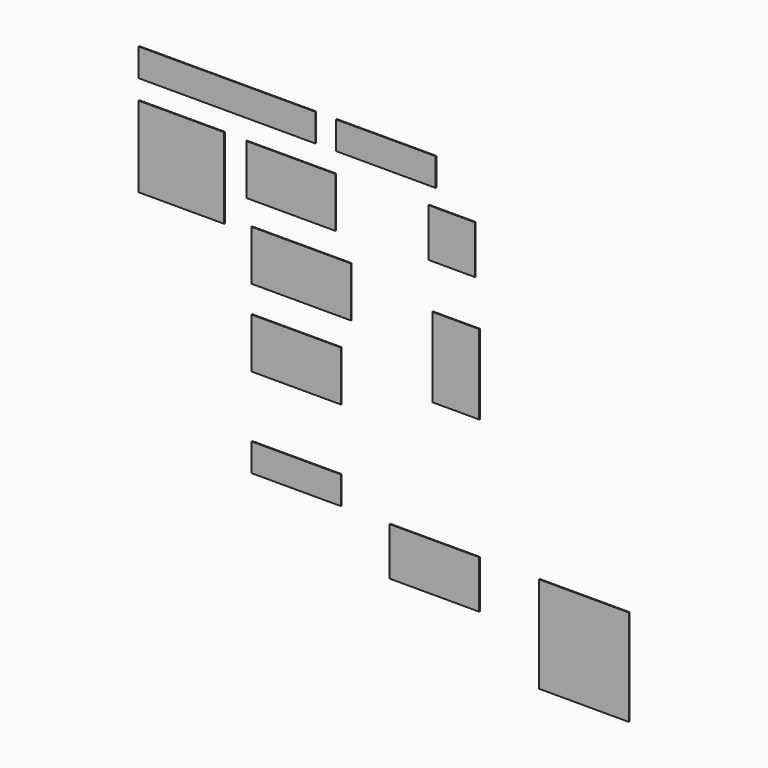
from build123d import *

# Parameters (mm, degrees)
F0_W     = 1279
F0_H     = 202
F0_W_2   = 720
F0_W_3   = 620
F0_H_2   = 584
F0_W_4   = 645
F0_H_3   = 363
F0_W_5   = 648
F0_W_6   = 337
F0_H_4   = 349
F0_W_7   = 339
F0_H_5   = 576
F0_W_8   = 649
F0_H_6   = 347
F0_H_7   = 697
F1_DEPTH = 6


with BuildPart() as f1:
    # F0 (on Front) → F1 (new body)
    with BuildSketch(Plane.XZ):
        with Locations((-825.733922, 1030.415606)):
            Rectangle(F0_W, F0_H)
        with Locations((324.496017, 1030.415606)):
            Rectangle(F0_W_2, F0_H)
        with Locations((-1155.233922, 494.7136)):
            Rectangle(F0_W_3, F0_H_2)
        with Locations((-363.237312, 601.296502)):
            Rectangle(F0_W_4, F0_H_3)
        with Locations((-288, 66.900228)):
            Rectangle(F0_W_2, F0_H_3)
        with Locations((-324, -492.084461)):
            Rectangle(F0_W_5, F0_H_3)
        with Locations((-324, -1220.074963)):
            Rectangle(F0_W_5, F0_H)
        with Locations((800.275213, 628.201258)):
            Rectangle(F0_W_6, F0_H_4)
        with Locations((830.833621, -155.714912)):
            Rectangle(F0_W_7, F0_H_5)
        with Locations((675.833621, -1494.574963)):
            Rectangle(F0_W_8, F0_H_6)
        with Locations((1758.595704, -1669.574963)):
            Rectangle(F0_W_5, F0_H_7)
    extrude(amount=F1_DEPTH)


solid = f1.part
